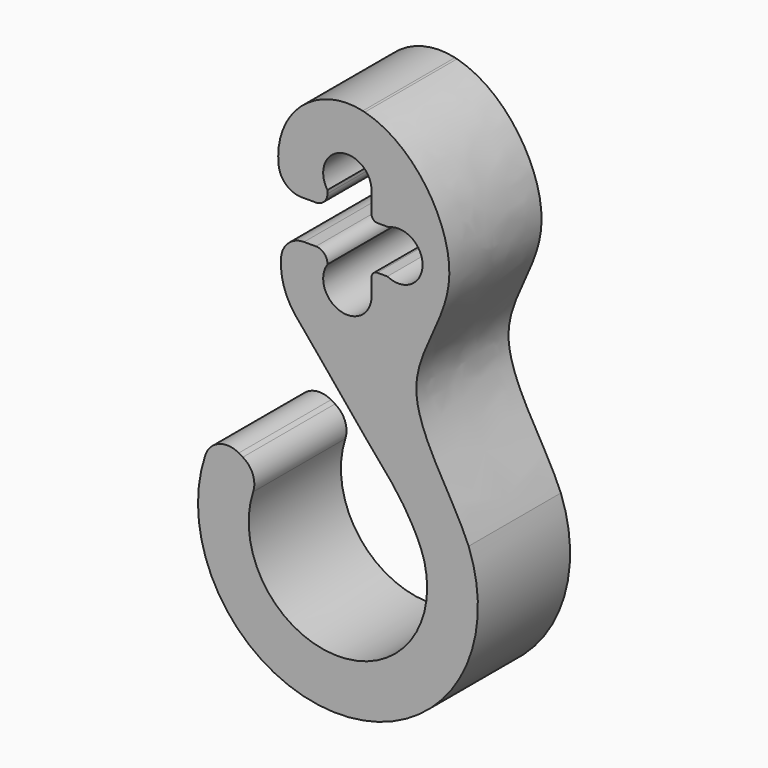
from build123d import *

# Parameters (mm, degrees)
F1_DEPTH = 10
F2_R     = 1
F3_R     = 2
F4_R     = 0.5


with BuildPart() as f1:
    # F0 (on Front) → F1 (new body)
    with BuildSketch(Plane.XZ):
        with BuildLine():
            add(Edge.make_bspline(
                [(1.5112039039, 5.8065706541), (5.7834953099, 4.7065008724), (11.8156523878, -4.7347263591), (3.0061887209, -13.6750164571), (9.173676435, -21.061609973), (10.5198239377, -24.4136286822)],
                knots=[0.0047213261, 0.0047213261, 0.0047213261, 0.0047213261, 0.3509831279, 0.6641973473, 1, 1, 1, 1], degree=3))
            ThreePointArc((1.5112039039, 5.8065706541), (5.4017035076, 2.6118191391), (5.4896402552, -2.4215387398))
            ThreePointArc((5.4896402552, -2.4215387398), (6.2465875364, -3.188852596), (6.5231922366, -4.2305961251))
            ThreePointArc((6.5231922366, -4.2305961251), (6.225200021, -5.3089133071), (5.4157941938, -6.0812017975))
            ThreePointArc((5.4157941938, -6.0812017975), (3.0163538383, -12.9894945105), (-4.2289772618, -11.9960160364))
            add(Edge.make_bspline(
                [(-4.2289772618, -11.9960160364), (-2.1170324589, -14.4737038468), (1.871939821, -19.6061252586), (5.1872399636, -23.06487225), (6.4110226343, -25.9877145657)],
                knots=[0.0237271282, 0.0237271282, 0.0237271282, 0.0237271282, 0.5253023233, 1, 1, 1, 1], degree=3))
            ThreePointArc((6.4110226343, -25.9877145657), (-1.4294843622, -36.4738181218), (-7.5196663351, -24.8832356822))
            Line((-7.5196663351, -24.8832356822), (-11.3290949579, -22.6813619148))
            ThreePointArc((-11.3290949579, -22.6813619148), (-1.7772420469, -40.8600533084), (10.5198239377, -24.4136286822))
        make_face()
        with BuildLine():
            ThreePointArc((-1.7285399627, -1.1925391387), (-0.6245262518, 2.0049855263), (2.1, 0))
            Line((2.1, 0), (2.1, -2.3033259844))
            Line((2.1, -2.3033259844), (3.5891479903, -2.3033259844))
            ThreePointArc((3.5891479903, -2.3033259844), (4.5535626405, -2.1346468038), (5.4896402552, -2.4215387398))
            ThreePointArc((5.4896402552, -2.4215387398), (5.4017035076, 2.6118191391), (1.5112039039, 5.8065706541))
            ThreePointArc((1.5112039039, 5.8065706541), (1.4236796844, 5.8286478841), (1.3358332429, 5.849405914))
            ThreePointArc((1.3358332429, 5.849405914), (-4.6453170358, 3.7975030793), (-5.4670086667, -2.4722087772))
            Line((-5.4670086667, -2.4722087772), (-1.7285399627, -2.4722087772))
            Line((-1.7285399627, -2.4722087772), (-1.7285399627, -1.1925391387))
        make_face()
        with BuildLine():
            Line((3.4729907453, -6.1033259844), (2.1, -6.1033259844))
            Line((2.1, -6.1033259844), (2.1, -8.0709895119))
            ThreePointArc((2.1, -8.0709895119), (-0.6245262518, -10.0759750383), (-1.7285399627, -6.8784503732))
            Line((-1.7285399627, -6.8784503732), (-1.7285399627, -5.8205844834))
            Line((-1.7285399627, -5.8205844834), (-5.3127920255, -5.8205844834))
            ThreePointArc((-5.3127920255, -5.8205844834), (-5.7182347895, -8.8403222036), (-4.5291030542, -11.6455254849))
            add(Edge.make_bspline(
                [(-4.5291030542, -11.6455254849), (-4.4289292872, -11.7619570644), (-4.3288832889, -11.8788084534), (-4.2289772618, -11.9960160364)],
                knots=[0, 0, 0, 0, 0.0237271282, 0.0237271282, 0.0237271282, 0.0237271282], degree=3))
            ThreePointArc((-4.2289772618, -11.9960160364), (3.0163538383, -12.9894945105), (5.4157941938, -6.0812017975))
            ThreePointArc((5.4157941938, -6.0812017975), (4.4471049903, -6.3304599731), (3.4729907453, -6.1033259844))
        make_face()
    extrude(amount=F1_DEPTH)

    # F2
    f2_edges = [f1.edges().sort_by_distance(p)[0] for p in [
        (-1.72854, -5, -2.472209),
        (-1.72854, -5, -5.820584),
    ]]
    fillet(f2_edges, radius=F2_R)

    # F3
    f3_edges = [f1.edges().sort_by_distance(p)[0] for p in [
        (-11.329095, -5, -22.681362),
        (-7.519666, -5, -24.883236),
        (-5.467009, -5, -2.472209),
        (-5.312792, -5, -5.820584),
    ]]
    fillet(f3_edges, radius=F3_R)

    # F4
    f4_edges = [f1.edges().sort_by_distance(p)[0] for p in [
        (2.1, -5, -2.303326),
        (2.1, -5, -6.103326),
    ]]
    fillet(f4_edges, radius=F4_R)


solid = f1.part
